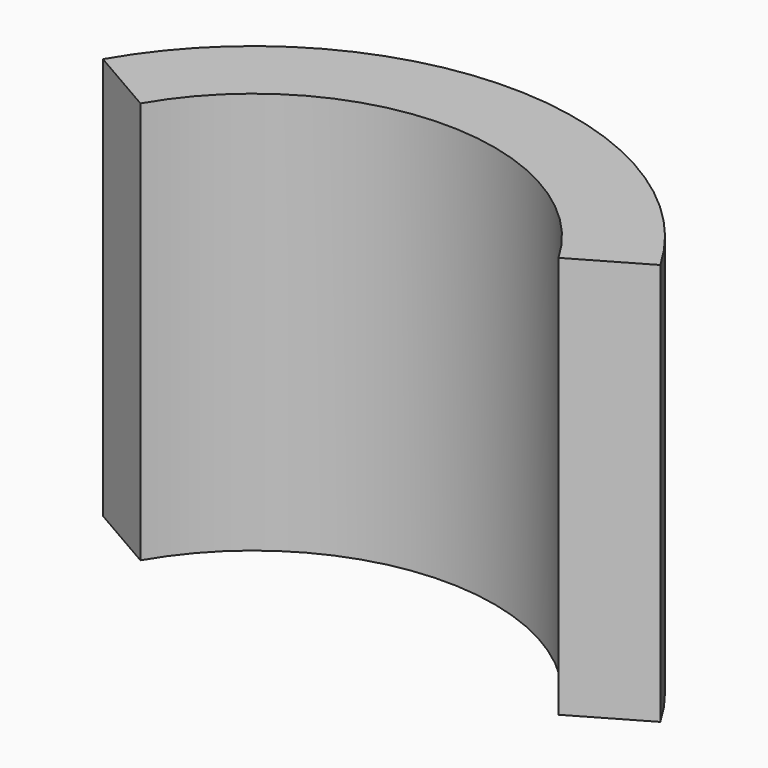
from build123d import *

# Parameters (mm, degrees)
CYLINDER020_W               = 6
CYLINDER020_H               = 10
CYLINDER020_ANGLE           = 120
CYLINDER020_PLACEMENT_ANGLE = 30
CYLINDER015_W               = 8
CYLINDER015_H               = 10
CYLINDER015_ANGLE           = 120
CYLINDER015_PLACEMENT_ANGLE = 30


with BuildPart() as cilindro011:
    # Cylinder020 → Cylinder020 (revolve)
    with BuildSketch(Plane.XZ):
        with Locations((3, 5)):
            Rectangle(CYLINDER020_W, CYLINDER020_H)
    revolve(axis=Axis((0, 0, 0), (0, 0, 1)), revolution_arc=CYLINDER020_ANGLE)


with BuildPart() as cilindro011_1:
    # Cylinder020 placement: moved
    add(cilindro011.part.moved(Location((-30.75, -30, 0))).rotate(Axis((-30.75, -30, 0), (0, 0, 1)), CYLINDER020_PLACEMENT_ANGLE))


with BuildPart() as obj1:
    # Cylinder015 → Cylinder015 (revolve)
    with BuildSketch(Plane.XZ):
        with Locations((4, 5)):
            Rectangle(CYLINDER015_W, CYLINDER015_H)
    revolve(axis=Axis((0, 0, 0), (0, 0, 1)), revolution_arc=CYLINDER015_ANGLE)


with BuildPart() as obj1_1:
    # Cylinder015 placement: moved
    add(obj1.part.moved(Location((-30.75, -30, 0))).rotate(Axis((-30.75, -30, 0), (0, 0, 1)), CYLINDER015_PLACEMENT_ANGLE))

    # Cut005: cut Cilindro011
    add(cilindro011_1.part, mode=Mode.SUBTRACT)


solid = obj1_1.part
